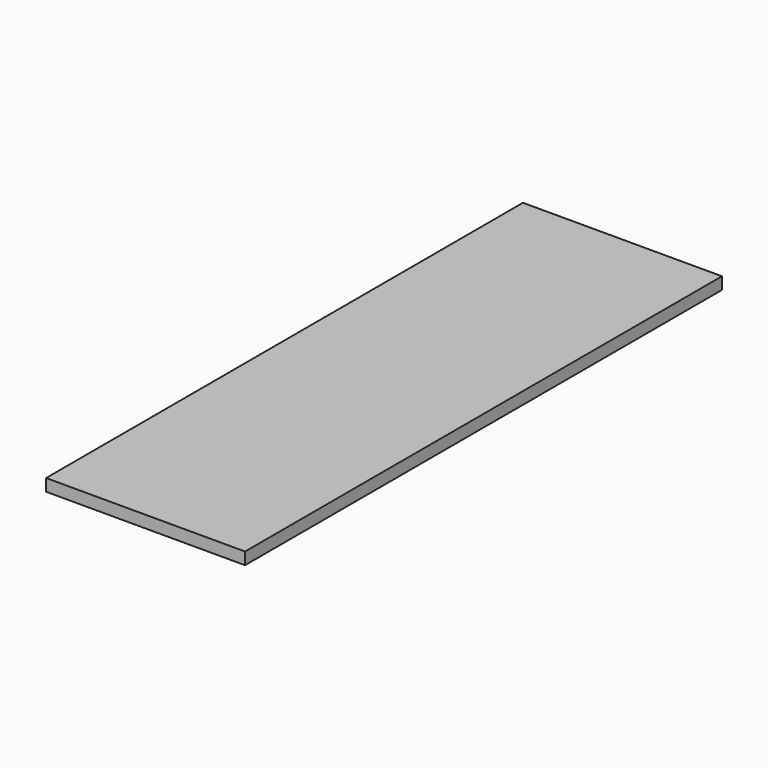
from build123d import *

# Parameters (mm, degrees)
SKETCH_W     = 49.4
SKETCH_H     = 148
PAD_DEPTH    = 3
SKETCH001_R  = 3.1
POCKET_DEPTH = 2


with BuildPart() as part:
    # Sketch → Pad (new body)
    with BuildSketch(Plane.XY):
        with Locations((24.7, 74)):
            Rectangle(SKETCH_W, SKETCH_H)
    extrude(amount=PAD_DEPTH)

    # Sketch001 → Pocket (cut)
    with BuildSketch(Plane.XY):
        with Locations((24.7, 6)):
            Circle(SKETCH001_R)
        with Locations((24.7, 142)):
            Circle(SKETCH001_R)
    extrude(amount=POCKET_DEPTH, mode=Mode.SUBTRACT)


solid = part.part
